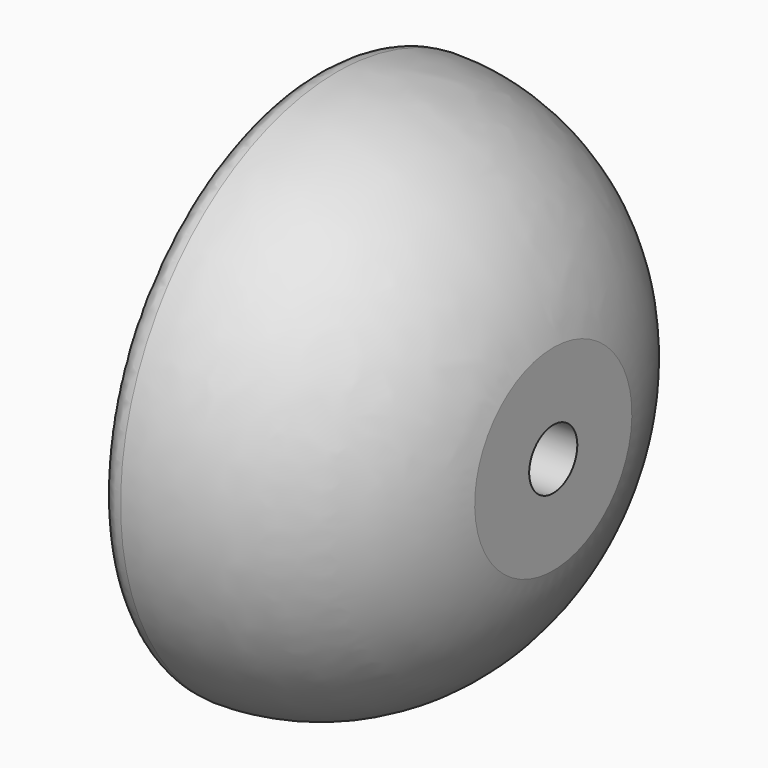
from build123d import *

# Parameters (mm, degrees)
F3_R     = 2.54
F4_R     = 3.175
F5_DEPTH = 6.35


with BuildPart() as f2:
    # F0 (on Front) → F2 (revolve)
    with BuildSketch(Plane.XZ):
        with BuildLine():
            ThreePointArc((47.953237, 10.370561), (38.63617, 24.162526), (22.553237, 28.448))
            Line((22.553237, 28.448), (22.553237, 0))
            Line((22.553237, 0), (47.953237, 0))
            Line((47.953237, 0), (47.953237, 10.370561))
        make_face()
    revolve(axis=Axis((39.286111, 0, 0), (1, 0, 0)))

    # F3
    f3_edges = [f2.edges().sort_by_distance(p)[0] for p in [
        (22.553237, 0, -28.448),
    ]]
    fillet(f3_edges, radius=F3_R)

    # F4 (on face) → F5 (cut)
    with BuildSketch(Plane.YZ.offset(47.953237)):
        Circle(F4_R)
    extrude(amount=-F5_DEPTH, mode=Mode.SUBTRACT)


solid = f2.part
